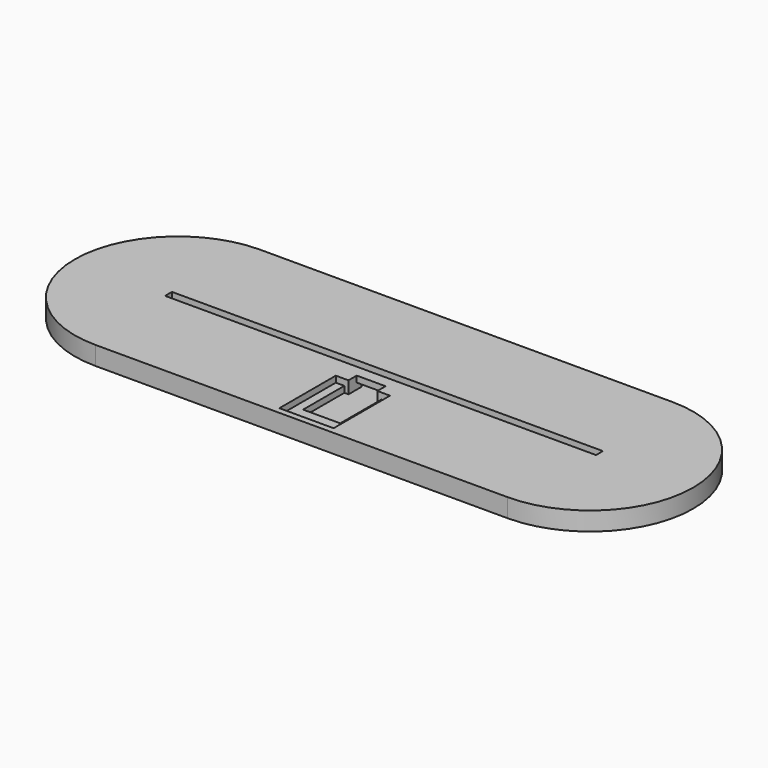
from build123d import *

# Parameters (mm, degrees)
PAD_DEPTH       = 3
PAD001_DEPTH    = 3
SKETCH002_W     = 209.08447
SKETCH002_H     = 4.18
PAD002_DEPTH    = 3
SKETCH003_W     = 26.3
SKETCH003_H     = 34.2
POCKET_DEPTH    = 3
SKETCH004_W     = 18
SKETCH004_H     = 25
POCKET001_DEPTH = 3
SKETCH005_W     = 14
SKETCH005_H     = 5
POCKET002_DEPTH = 6
SKETCH006_W     = 14
SKETCH006_H     = 3
POCKET003_DEPTH = 3


with BuildPart() as part:
    # Sketch → Pad (new body)
    with BuildSketch(Plane.XY):
        with BuildLine():
            ThreePointArc((-100, 50), (-150, 0), (-100, -50))
            Line((-100, -50), (100, -50))
            ThreePointArc((100, -50), (150, 0), (100, 50))
            Line((-100, 50), (100, 50))
        make_face()
    extrude(amount=PAD_DEPTH)

    # Sketch001 (on Face6 of Pad) → Pad001 (join)
    with BuildSketch(Plane.XY.offset(3)):
        with BuildLine():
            ThreePointArc((-100, 50), (-150, 0), (-100, -50))
            Line((-100, -50), (100, -50))
            ThreePointArc((100, -50), (150, 0), (100, 50))
            Line((-100, 50), (100, 50))
        make_face()
        with BuildLine():
            ThreePointArc((-100, 5), (-105, 0), (-100, -5))
            Line((-100, -5), (100, -5))
            ThreePointArc((100, -5), (105, 0), (100, 5))
            Line((-100, 5), (100, 5))
        make_face(mode=Mode.SUBTRACT)
    extrude(amount=PAD001_DEPTH)

    # Sketch002 (on Face9 of Pad001) → Pad002 (join)
    with BuildSketch(Plane.XY.offset(6)):
        with BuildLine():
            ThreePointArc((-100, 50), (-150, 0), (-100, -50))
            Line((-100, -50), (100, -50))
            ThreePointArc((100, -50), (150, 0), (100, 50))
            Line((-100, 50), (100, 50))
        make_face()
        Rectangle(SKETCH002_W, SKETCH002_H, mode=Mode.SUBTRACT)
    extrude(amount=PAD002_DEPTH)

    # Sketch003 (on Face13 of Pad002) → Pocket (cut)
    with BuildSketch(Plane.XY.offset(9)):
        with Locations((0, -29.9)):
            Rectangle(SKETCH003_W, SKETCH003_H)
    extrude(amount=-POCKET_DEPTH, mode=Mode.SUBTRACT)

    # Sketch004 (on Face27 of Pocket) → Pocket001 (cut)
    with BuildSketch(Plane.XY.offset(6)):
        with Locations((0, -25.3)):
            Rectangle(SKETCH004_W, SKETCH004_H)
    extrude(amount=-POCKET001_DEPTH, mode=Mode.SUBTRACT)

    # Sketch005 (on Face13 of Pocket001) → Pocket002 (cut)
    with BuildSketch(Plane.XY.offset(9)):
        with Locations((0, -10.3)):
            Rectangle(SKETCH005_W, SKETCH005_H)
    extrude(amount=-POCKET002_DEPTH, mode=Mode.SUBTRACT)

    # Sketch006 (on Face23 of Pocket002) → Pocket003 (cut)
    with BuildSketch(Plane.XZ.offset(7.8)):
        with Locations((0, 4.5)):
            Rectangle(SKETCH006_W, SKETCH006_H)
    extrude(amount=-POCKET003_DEPTH, mode=Mode.SUBTRACT)


solid = part.part
